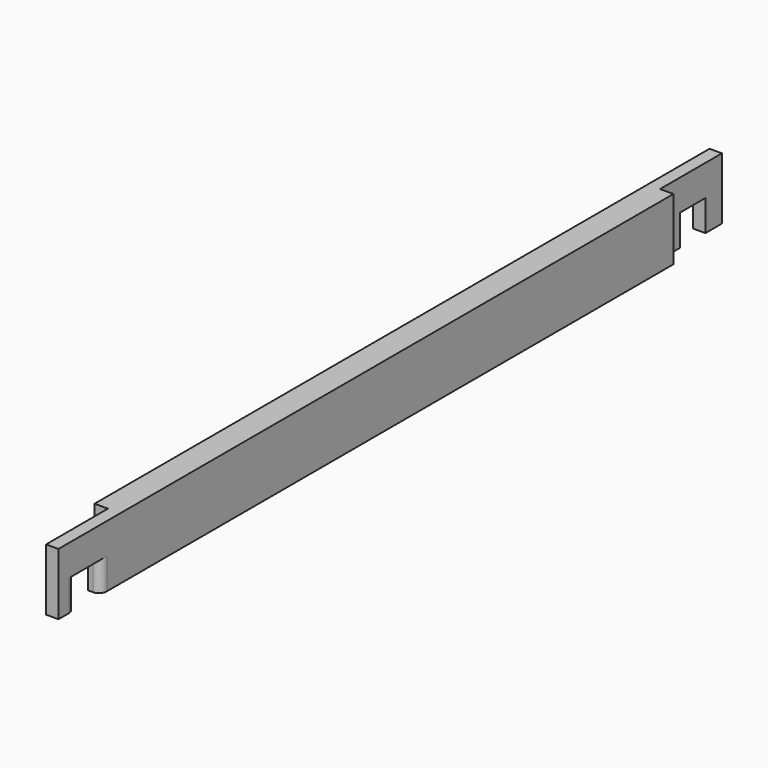
from build123d import *

# Parameters (mm, degrees)
F1_DEPTH = 5
F2_R     = 1.5
F3_W     = 2.6
F3_H     = 15
F4_DEPTH = 12.001


with BuildPart() as f1:
    # F0 (on Right) → F1 (new body)
    with BuildSketch(Plane.YZ):
        Polygon((-59.212235, 12), (-59.212235, 0), (-55.212235, 0), (-55.212235, 6), (-49.012235, 6), (-49.012235, 0), (94.587765, 0), (94.587765, 6), (100.787765, 6), (100.787765, 0), (104.787765, 0), (104.787765, 12), align=None)
    extrude(amount=F1_DEPTH)

    # F2
    f2_edges = [f1.edges().sort_by_distance(p)[0] for p in [
        (5, -55.212235, 3),
        (5, -49.012235, 3),
    ]]
    fillet(f2_edges, radius=F2_R)

    # F3 (on face) → F4 (cut, through all)
    with BuildSketch(Plane.XY.offset(12)):
        with Locations((3.7, 97.287765)):
            Rectangle(F3_W, F3_H)
        with Locations((1.3, -51.712235)):
            Rectangle(F3_W, F3_H)
    extrude(amount=-F4_DEPTH, mode=Mode.SUBTRACT)


solid = f1.part
